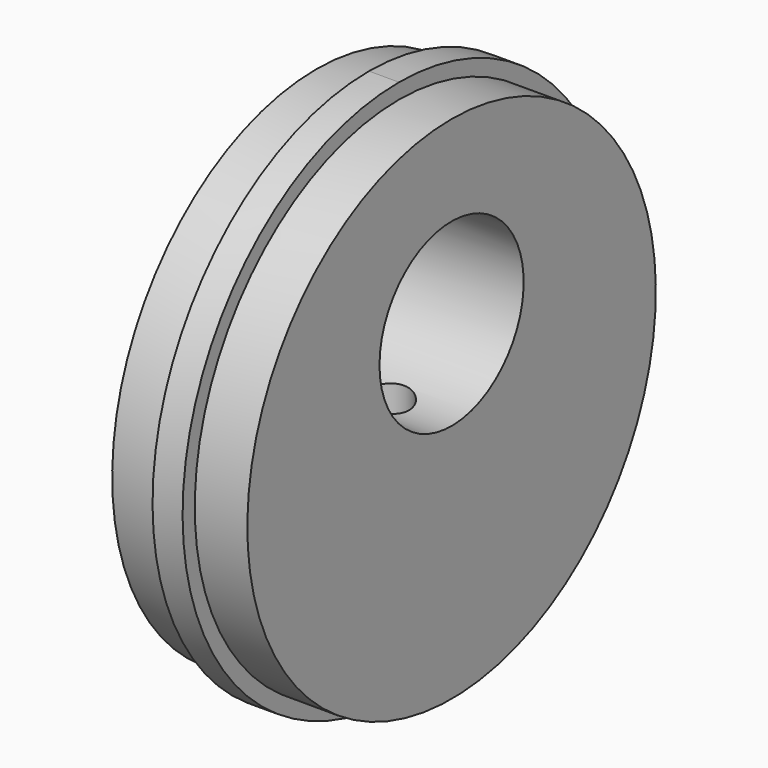
from build123d import *

# Parameters (mm, degrees)
F2_R     = 4.7625
F3_DEPTH = 7.14475
F5_R     = 1.3208
F6_DEPTH = 14.2875


with BuildPart() as f1:
    # F0 (on Front) → F1 (revolve)
    with BuildSketch(Plane.XZ):
        Polygon((-3.571875, 13.49375), (-3.571875, 0), (3.571875, 0), (3.571875, 13.49375), (0.79375, 13.49375), (0.79375, 14.3002), (-0.79375, 14.3002), (-0.79375, 13.49375), align=None)
    revolve(axis=Axis((0, 0, 0), (1, 0, 0)))

    # F2 (on face) → F3 (cut, through all)
    with BuildSketch(Plane(origin=(-3.571875, 0, 0), x_dir=(0, -1, 0), z_dir=(-1, 0, 0))):
        with Locations((0, 3.96875)):
            Circle(F2_R)
    extrude(amount=-F3_DEPTH, mode=Mode.SUBTRACT)

    # F5 (on offset) → F6 (cut)
    with BuildSketch(Plane.XY.offset(-14.478)):
        Circle(F5_R)
    extrude(amount=F6_DEPTH, mode=Mode.SUBTRACT)


solid = f1.part
